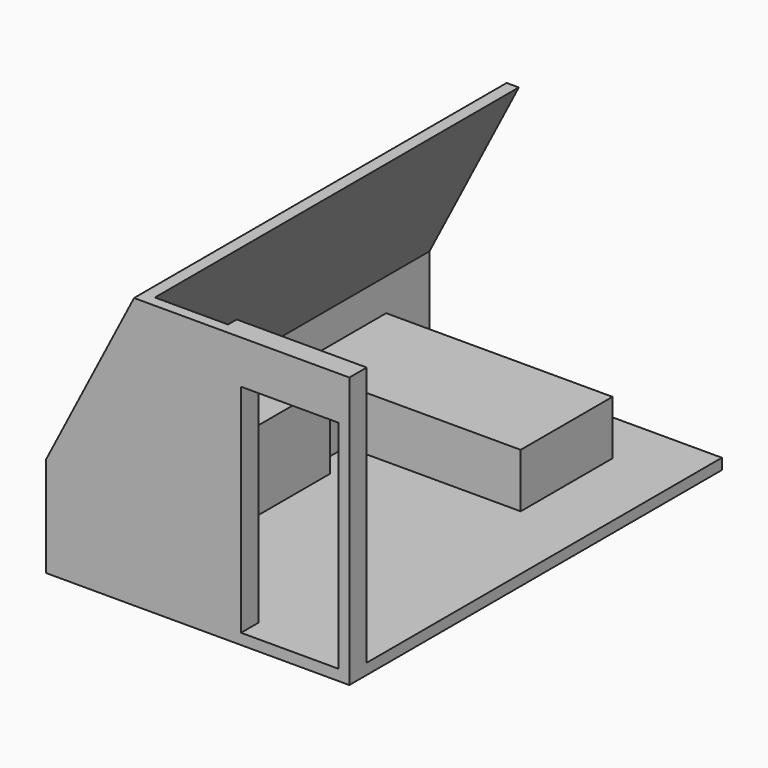
from build123d import *

# Parameters (mm, degrees)
F1_DEPTH  = 2100
F2_T      = 100
F3_W      = 2090
F3_H      = 1060
F4_DEPTH  = 500
F5_W      = 1200
F5_H      = 100
F6_DEPTH  = 2400
F7_W      = 900
F7_H      = 2000
F8_DEPTH  = 1000
F9_W      = 1470
F9_H      = 390
F10_DEPTH = 770
F11_W     = 770
F11_H     = 390
F12_DEPTH = 770
F13_W     = 480
F13_H     = 400
F14_DEPTH = 550
F15_W     = 650
F15_H     = 1400
F16_DEPTH = 730


with BuildPart() as f1:
    # F0 (on Front) → F1 (new body, symmetric)
    with BuildSketch(Plane.XZ):
        Polygon((-525.3788748765, 2400), (-1350, 800), (-1350, 0), (1350, 0), (1350, 2400), align=None)
    extrude(amount=F1_DEPTH, both=True)

    # F2
    f2_openings = [f1.faces().sort_by_distance(p)[0] for p in [
        (121.8592, 2100, 1124.43728),
        (412.310563, 0, 2400),
        (1350, 0, 1200),
    ]]
    offset(amount=F2_T, openings=f2_openings, kind=Kind.INTERSECTION)

    # F5 (on face) → F6 (join, through all)
    with BuildSketch(Plane.XY):
        with Locations((750, -2050)):
            Rectangle(F5_W, F5_H)
    extrude(amount=F6_DEPTH)

    # F7 (on face) → F8 (cut)
    with BuildSketch(Plane.XZ.offset(2200)):
        with Locations((800, 1000)):
            Rectangle(F7_W, F7_H)
    extrude(amount=-F8_DEPTH, mode=Mode.SUBTRACT)


with BuildPart() as f4:
    # F3 (on face) → F4 (new body)
    with BuildSketch(Plane.XY):
        with Locations((-305, 1070)):
            Rectangle(F3_W, F3_H)
    extrude(amount=F4_DEPTH)


with BuildPart() as f10:
    # F9 (on face) → F10 (new body)
    with BuildSketch(Plane.XY):
        with Locations((-615, -1905)):
            Rectangle(F9_W, F9_H)
    extrude(amount=F10_DEPTH)


with BuildPart() as f12:
    # F11 (on face) → F12 (new body)
    with BuildSketch(Plane.XY.offset(770)):
        with Locations((-265, -1905)):
            Rectangle(F11_W, F11_H)
    extrude(amount=F12_DEPTH)


with BuildPart() as f14:
    # F13 (on face) → F14 (new body)
    with BuildSketch(Plane.XY):
        with Locations((-1110, 340)):
            Rectangle(F13_W, F13_H)
    extrude(amount=F14_DEPTH)


with BuildPart() as f16:
    # F15 (on face) → F16 (new body)
    with BuildSketch(Plane.XY):
        with Locations((-1025, -560)):
            Rectangle(F15_W, F15_H)
    extrude(amount=F16_DEPTH)


solid = Compound([f1.part, f4.part, f10.part, f12.part, f14.part, f16.part])
